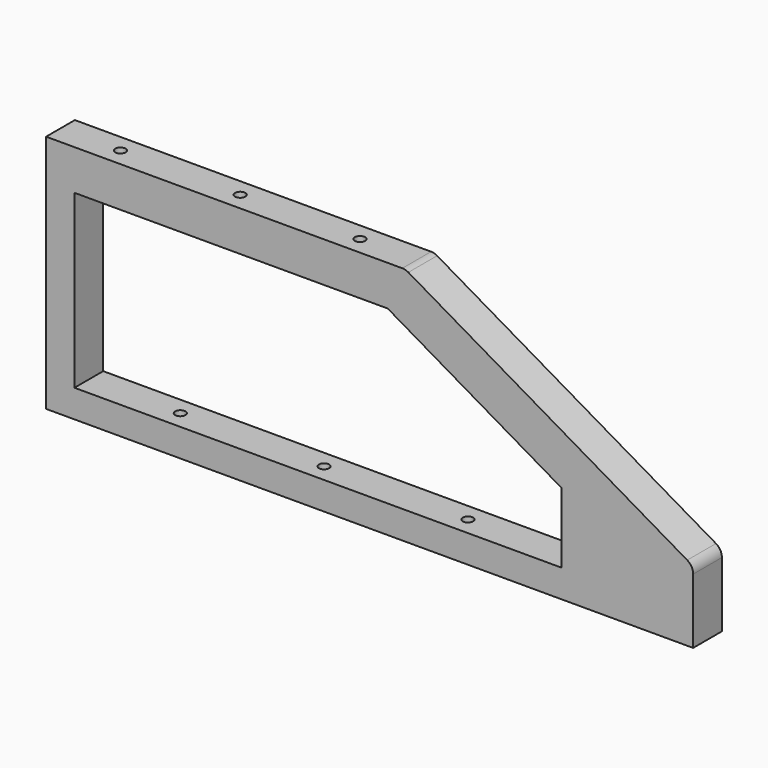
from build123d import *

# Parameters (mm, degrees)
F1_DEPTH = 15
F3_D     = 4.3
F3_DEPTH = 15
F3_TIP   = 1.2918503309
F4_R     = 5
F5_R     = 5
F7_DEPTH = 15.001
F9_D     = 4.3
F9_DEPTH = 20
F9_TIP   = 1.2918503309


with BuildPart() as f1:
    # F0 (on Front) → F1 (new body)
    with BuildSketch(Plane.XZ):
        Polygon((0, 100), (0, 0), (150, 0), (270, 0), (270, 30), (150, 100), align=None)
    extrude(amount=F1_DEPTH)

    # F3
    with Locations(Plane.XY.offset(100)):
        with Locations((125, -7.5), (75, -7.5), (25, -7.5)):
            Hole(F3_D / 2, depth=F3_DEPTH)
            with Locations((0, 0, -(F3_DEPTH + F3_TIP / 2))):  # 118° drill point
                Cone(0, F3_D / 2, F3_TIP, mode=Mode.SUBTRACT)

    # F4
    f4_edges = [f1.edges().sort_by_distance(p)[0] for p in [
        (270, -7.5, 30),
    ]]
    fillet(f4_edges, radius=F4_R)

    # F5
    f5_edges = [f1.edges().sort_by_distance(p)[0] for p in [
        (150, -7.5, 100),
    ]]
    fillet(f5_edges, radius=F5_R)

    # F6 (on Front) → F7 (cut, through all)
    with BuildSketch(Plane.XZ):
        Polygon((11.8321627378, 83.2323953509), (11.8321627378, 11.6192111745), (215.076940872, 11.6192111745), (215.076940872, 40.9227917323), (142.5461918116, 83.2323953509), align=None)
    extrude(amount=F7_DEPTH, mode=Mode.SUBTRACT)

    # F9
    with Locations(Plane(origin=(0, 0, 0), x_dir=(1, 0, 0), z_dir=(0, 0, -1))):
        with Locations((50, 7.5), (110, 7.5), (170, 7.5)):
            Hole(F9_D / 2, depth=F9_DEPTH)
            with Locations((0, 0, -(F9_DEPTH + F9_TIP / 2))):  # 118° drill point
                Cone(0, F9_D / 2, F9_TIP, mode=Mode.SUBTRACT)


solid = f1.part
